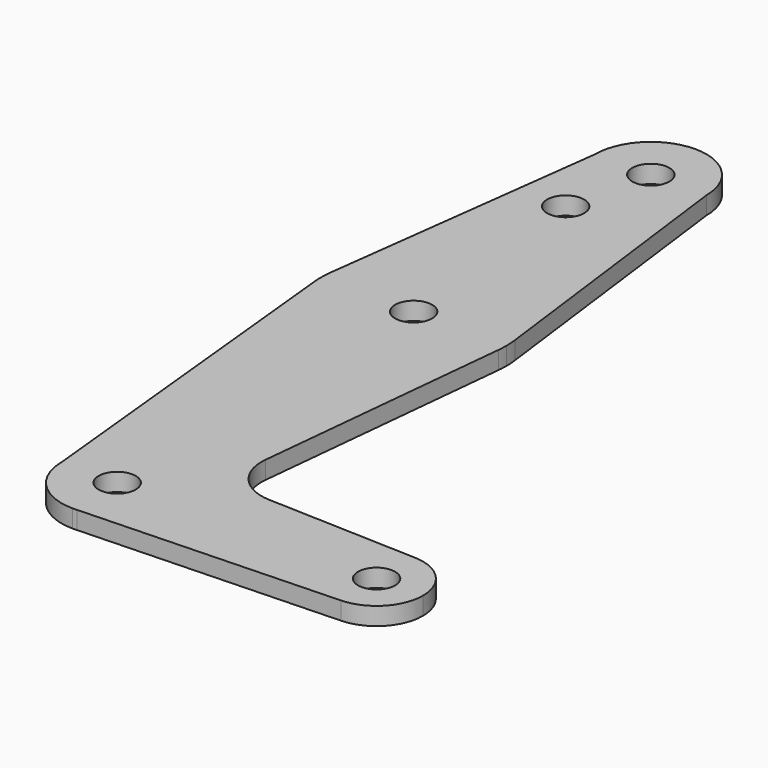
from build123d import *

# Parameters (mm, degrees)
F0_R     = 3.175
F1_DEPTH = 3.048


with BuildPart() as f1:
    # F0 (on Top) → F1 (new body)
    with BuildSketch(Plane.XY):
        with BuildLine():
            Line((-9.525, 114.3), (-15.7474569047, 65.5082893304))
            ThreePointArc((-15.7474569047, 65.5082893304), (0, 79.375), (15.7474569047, 65.5082893304))
            Line((15.7474569047, 65.5082893304), (9.525, 114.3))
            ThreePointArc((9.525, 114.3), (0, 104.775), (-9.525, 114.3))
        make_face()
        with Locations((-3.175, 100.0252)):
            Circle(F0_R, mode=Mode.SUBTRACT)
        with BuildLine():
            ThreePointArc((9.525, 114.3), (0, 123.825), (-9.525, 114.3))
            ThreePointArc((-9.525, 114.3), (0, 104.775), (9.525, 114.3))
        make_face()
        with Locations((0, 114.3)):
            Circle(F0_R, mode=Mode.SUBTRACT)
        with BuildLine():
            ThreePointArc((-15.7474569047, 65.5082893304), (-15.873667691, 63.7056672947), (-15.7942028036, 61.9003804205))
            ThreePointArc((-15.7942028036, 61.9003804205), (0.0060905531, 47.6250011683), (15.7954255641, 61.9125))
            ThreePointArc((15.7954255641, 61.9125), (15.8550939106, 62.7052534459), (15.875, 63.5))
            ThreePointArc((15.875, 63.5), (15.8430821396, 64.5061676396), (15.7474569047, 65.5082893304))
            ThreePointArc((15.7474569047, 65.5082893304), (0, 79.375), (-15.7474569047, 65.5082893304))
        make_face()
        with Locations((0, 63.5)):
            Circle(F0_R, mode=Mode.SUBTRACT)
        with BuildLine():
            ThreePointArc((-9.525, 0), (0, 9.525), (9.525, 0))
            Line((9.525, 0), (36.5125, 0))
            ThreePointArc((36.5125, 0), (38.9384772185, 5.7120069047), (44.7334821429, 7.9324362036))
            Line((44.7334821429, 7.9324362036), (18.9676000005, 8.8532337108))
            ThreePointArc((18.9676000005, 8.8532337108), (13.2611998974, 11.5713591498), (11.3411865923, 17.5933818124))
            Line((11.3411865923, 17.5933818124), (15.7954255641, 61.9125))
            ThreePointArc((15.7954255641, 61.9125), (0.0060905531, 47.6250011683), (-15.7942028036, 61.9003804205))
            Line((-15.7942028036, 61.9003804205), (-9.525, 0))
        make_face()
        with BuildLine():
            Line((36.5125, 0), (9.525, 0))
            ThreePointArc((9.525, 0), (6.9705567315, -6.4912990883), (0.6773435479, -9.500885786))
            Line((0.6773435479, -9.500885786), (44.7324052746, -7.9324746146))
            ThreePointArc((44.7324052746, -7.9324746146), (38.9380895153, -5.7116327839), (36.5125, 0))
        make_face()
        with BuildLine():
            ThreePointArc((0.6773435479, -9.500885786), (6.9705567315, -6.4912990883), (9.525, 0))
            ThreePointArc((9.525, 0), (0, 9.525), (-9.525, 0))
            ThreePointArc((-9.525, 0), (-6.7351920908, -6.7351920908), (0, -9.525))
            Line((0, -9.525), (0.6773435479, -9.500885786))
        make_face()
        Circle(F0_R, mode=Mode.SUBTRACT)
        with BuildLine():
            ThreePointArc((44.7334821429, 7.9324362036), (38.9384772185, 5.7120069047), (36.5125, 0))
            ThreePointArc((36.5125, 0), (38.9380895153, -5.7116327839), (44.7324052746, -7.9324746146))
            ThreePointArc((44.7324052746, -7.9324746146), (50.1616327839, -5.5119104847), (52.3875, 0))
            ThreePointArc((52.3875, 0), (50.1620069047, 5.5115227815), (44.7334821429, 7.9324362036))
        make_face()
        with BuildLine():
            ThreePointArc((47.625, 0), (44.45, -3.175), (41.275, 0))
            ThreePointArc((41.275, 0), (44.45, 3.175), (47.625, 0))
        make_face(mode=Mode.SUBTRACT)
    extrude(amount=F1_DEPTH)


solid = f1.part
